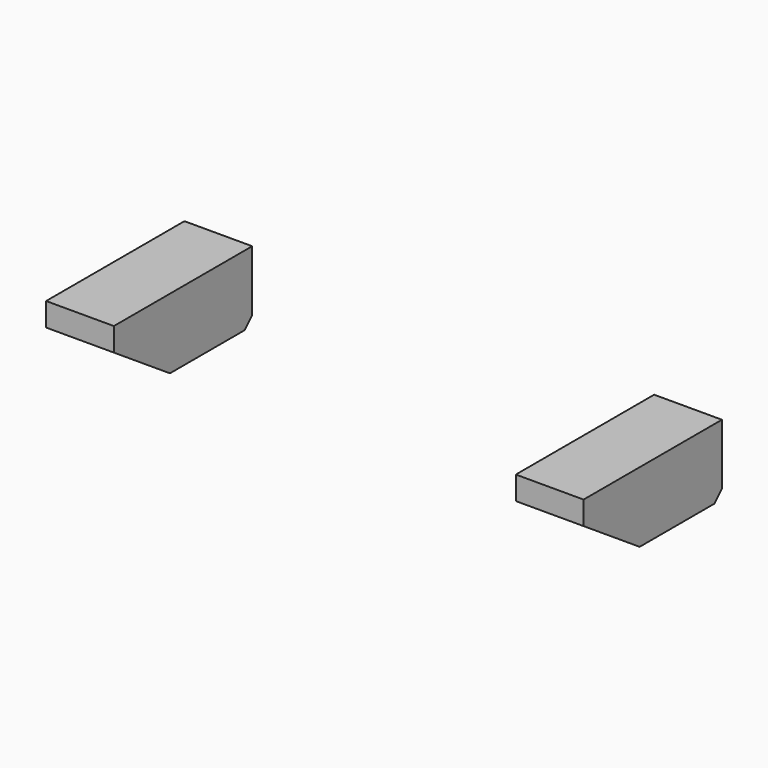
from build123d import *

# Parameters (mm, degrees)
BOX002_W        = 2.9
BOX002_H        = 7.4
BOX002_DEPTH    = 3
BOX001_W        = 2.9
BOX001_H        = 7.4
BOX001_DEPTH    = 3
CHAMFER_1_SIZE2 = 3
CHAMFER_1_SIZE  = 2
CHAMFER_2_SIZE2 = 3
CHAMFER_2_SIZE  = 2
CHAMFER004_SIZE = 0.4


with BuildPart() as cube002:
    # Box002 → Box002 (new body)
    with BuildSketch(Plane(origin=(-11.5, 4, -2), x_dir=(1, 0, 0), z_dir=(0, 0, 1))):
        with Locations((1.45, 3.7)):
            Rectangle(BOX002_W, BOX002_H)
    extrude(amount=BOX002_DEPTH)


with BuildPart() as align_arm:
    # Box001 → Box001 (new body)
    with BuildSketch(Plane(origin=(8.6, 4, -2), x_dir=(1, 0, 0), z_dir=(0, 0, 1))):
        with Locations((1.45, 3.7)):
            Rectangle(BOX001_W, BOX001_H)
    extrude(amount=BOX001_DEPTH)

    # Fusion001: union Cube002
    add(cube002.part)

    # Chamfer 1
    chamfer_1_edges = [align_arm.edges().sort_by_distance(p)[0] for p in [
        (-10.05, 4, -2),
    ]]
    chamfer_1_side = align_arm.faces().sort_by_distance((-10.05, 4, -0.5))[0]
    chamfer(chamfer_1_edges, length=CHAMFER_1_SIZE, length2=CHAMFER_1_SIZE2, reference=chamfer_1_side)

    # Chamfer 2
    chamfer_2_edges = [align_arm.edges().sort_by_distance(p)[0] for p in [
        (10.05, 4, -2),
    ]]
    chamfer_2_side = align_arm.faces().sort_by_distance((10.05, 4, -0.5))[0]
    chamfer(chamfer_2_edges, length=CHAMFER_2_SIZE, length2=CHAMFER_2_SIZE2, reference=chamfer_2_side)

    # Chamfer004
    chamfer004_edges = [align_arm.edges().sort_by_distance(p)[0] for p in [
        (10.05, 11.4, -2),
        (-10.05, 11.4, -2),
    ]]
    chamfer(chamfer004_edges, length=CHAMFER004_SIZE)


solid = align_arm.part
